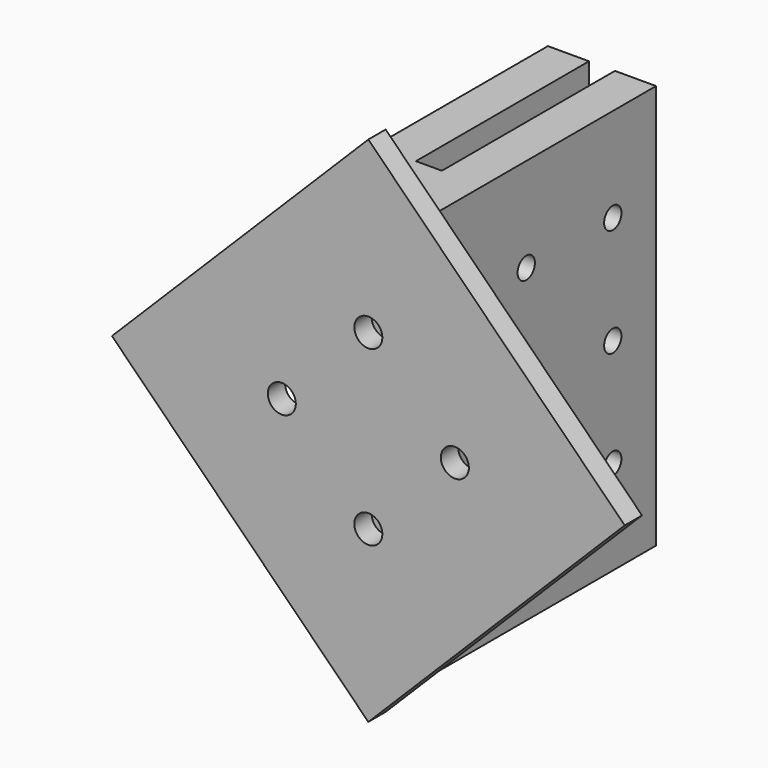
from build123d import *

# Parameters (mm, degrees)
F0_R     = 1.294923
F1_DEPTH = 2
F2_W     = 10
F2_H     = 37.403586
F3_DEPTH = 25
F4_W     = 2.4
F4_H     = 37.403586
F5_DEPTH = 20
F6_R     = 1
F7_DEPTH = 25


with BuildPart() as f1:
    # F0 (on Front) → F1 (new body)
    with BuildSketch(Plane.XZ):
        Polygon((23.701793, 0), (0, 23.701793), (-23.701793, 0), (0, -23.701793), align=None)
        with Locations((0, -8)):
            Circle(F0_R, mode=Mode.SUBTRACT)
        with Locations((-8, 0)):
            Circle(F0_R, mode=Mode.SUBTRACT)
        with Locations((8, 0)):
            Circle(F0_R, mode=Mode.SUBTRACT)
        with Locations((0, 8)):
            Circle(F0_R, mode=Mode.SUBTRACT)
    extrude(amount=F1_DEPTH)

    # F2 (on face) → F3 (join)
    with BuildSketch(Plane(origin=(0, 0, 0), x_dir=(-1, 0, 0), z_dir=(0, 1, 0))):
        Rectangle(F2_W, F2_H)
    extrude(amount=F3_DEPTH)

    # F4 (on face) → F5 (cut)
    with BuildSketch(Plane(origin=(0, 25, 0), x_dir=(-1, 0, 0), z_dir=(0, 1, 0))):
        Rectangle(F4_W, F4_H)
    extrude(amount=-F5_DEPTH, mode=Mode.SUBTRACT)

    # F6 (on face) → F7 (cut)
    with BuildSketch(Plane(origin=(-5, 0, 0), x_dir=(0, -1, 0), z_dir=(-1, 0, 0))):
        with Locations((-20, 10)):
            Circle(F6_R)
        with Locations((-10, 10)):
            Circle(F6_R)
        with Locations((-10, 0)):
            Circle(F6_R)
        with Locations((-20, 0)):
            Circle(F6_R)
        with Locations((-20, -10)):
            Circle(F6_R)
        with Locations((-10, -10)):
            Circle(F6_R)
    extrude(amount=-F7_DEPTH, mode=Mode.SUBTRACT)


solid = f1.part
